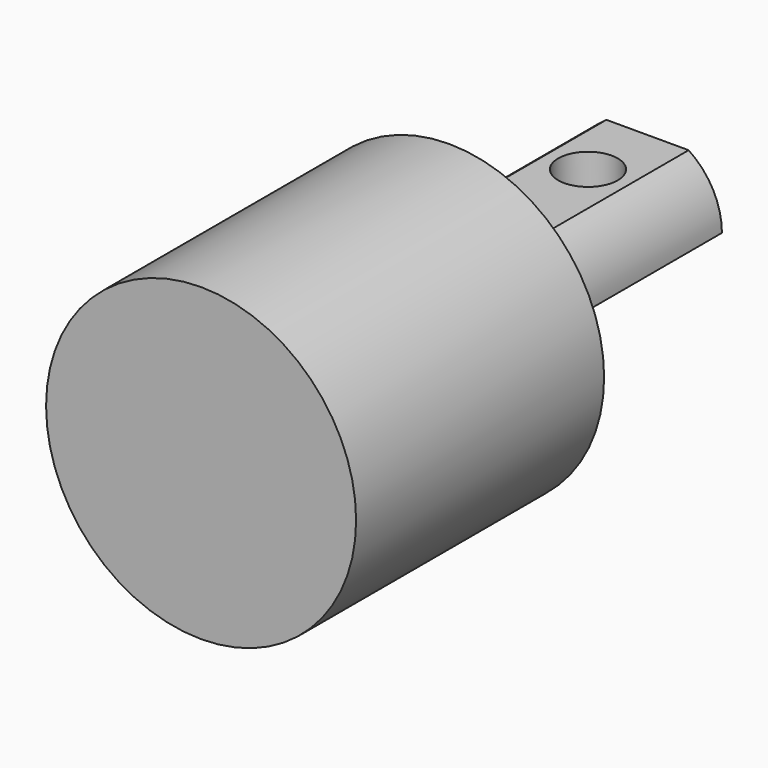
from build123d import *

# Parameters (mm, degrees)
F2_W          = 9.5753744735
F2_H          = 5.0194775218
F2_H_2        = 2.1959905885
F3_DEPTH      = 6.251
F3_DEPTH_BACK = 6.251
F4_R          = 1.2
F5_DEPTH      = 6.251


with BuildPart() as f1:
    # F0 (on Right) → F1 (revolve)
    with BuildSketch(Plane.YZ):
        Polygon((0, 6.25), (0, 0), (22.5, 0), (22.5, 3), (12.5, 3), (12.5, 6.25), align=None)
    revolve(axis=Axis((0, 13.297872428, 0), (0, 1, 0)))

    # F2 (on Right) → F3 (cut, two sides)
    with BuildSketch(Plane.YZ) as f3_sk:
        with Locations((19.2876872367, -2.5097387609)):
            Rectangle(F2_W, F2_H)
        with Locations((19.2876872367, 3.5979952943)):
            Rectangle(F2_W, F2_H_2)
    extrude(amount=-F3_DEPTH, mode=Mode.SUBTRACT)
    extrude(f3_sk.sketch, amount=F3_DEPTH_BACK, mode=Mode.SUBTRACT)

    # F4 (on face) → F5 (cut, through all)
    with BuildSketch(Plane(origin=(0, 0, 0), x_dir=(1, 0, 0), z_dir=(0, 0, -1))):
        with Locations((0, -19.5)):
            Circle(F4_R)
    extrude(amount=-F5_DEPTH, mode=Mode.SUBTRACT)


solid = f1.part
